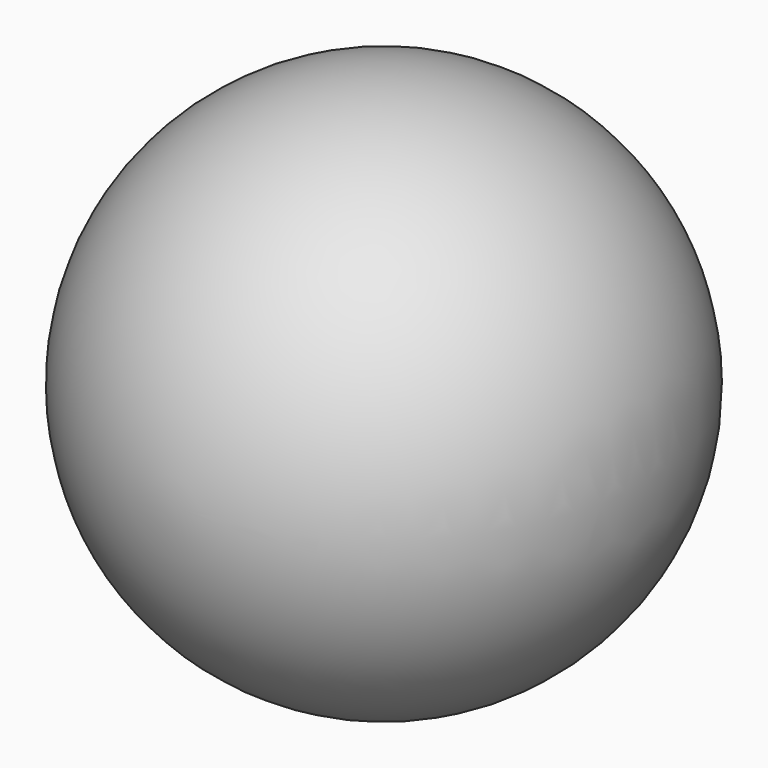
from build123d import *


with BuildPart() as f1:
    # F0 (on Top) → F1 (revolve)
    with BuildSketch(Plane.XY):
        with BuildLine():
            ThreePointArc((0, 49.1), (49.1, 0), (0, -49.1))
            Line((0, -49.1), (0, -59.1))
            ThreePointArc((0, -59.1), (59.1, 0), (0, 59.1))
            Line((0, 59.1), (0, 49.1))
        make_face()
    revolve(axis=Axis((0, 0, 0), (0, -1, 0)))


solid = f1.part
